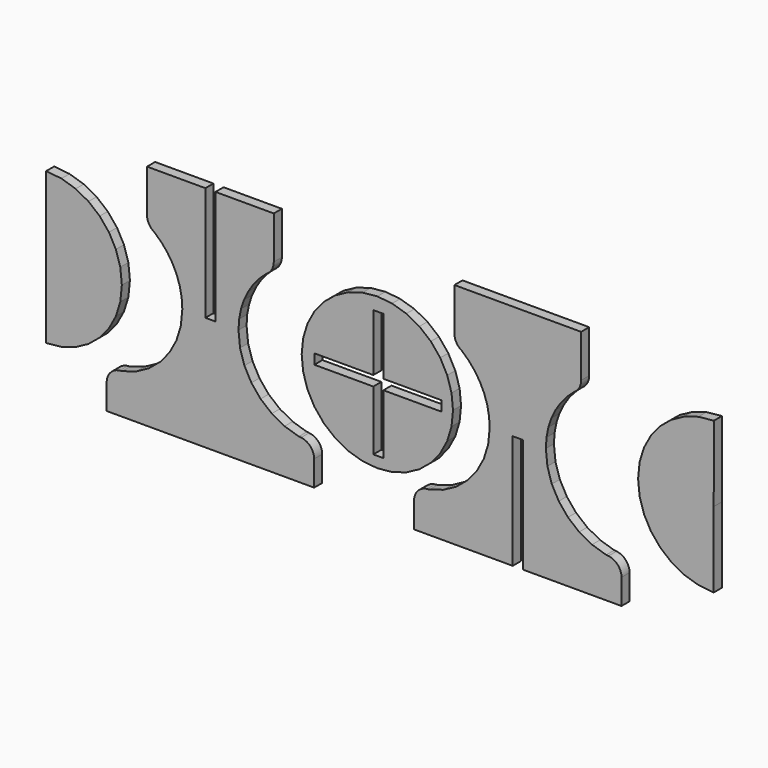
from build123d import *

# Parameters (mm, degrees)
F1_DEPTH = 200
F2_R     = 289.0380152714
F2_2_R   = 289.0380152714
F3_W     = 1169.8320388794
F3_H     = 200
F3_W_2   = 200
F3_H_2   = 1134.7459030151
F3_W_3   = 1150.1679611206
F3_H_3   = 1185.2540969849
F4_DEPTH = 810


with BuildPart() as f1:
    # F0 (on Front) → F1 (new body)
    with BuildSketch(Plane.XZ):
        Polygon((14041.69848, 1570.59092), (13749.063, 1599.413), (13456.42752, 1570.59092), (13175.03785, 1485.2323), (12915.70765, 1346.61742), (12688.40283, 1160.07317), (12501.85858, 932.76835), (12363.2437, 673.43815), (12277.88508, 392.04848), (12249.063, 99.413), (12277.88508, -193.22248), (12363.2437, -474.61215), (12501.85858, -733.94235), (12688.40283, -961.24717), (12915.70765, -1147.79142), (13175.03785, -1286.4063), (13456.42752, -1371.76492), (13749.063, -1400.587), (14041.69848, -1371.76492), (14323.08815, -1286.4063), (14582.41835, -1147.79142), (14809.72317, -961.24717), (14996.26742, -733.94235), (15134.8823, -474.61215), (15220.24092, -193.22248), (15249.063, 99.413), (15220.24092, 392.04848), (15134.8823, 673.43815), (14996.26742, 932.76835), (14809.72317, 1160.07317), (14582.41835, 1346.61742), (14323.08815, 1485.2323), align=None)
    extrude(amount=F1_DEPTH)

    # F3 (on Front) → F4 (cut)
    with BuildSketch(Plane.XZ):
        with Locations((13084.5116615295, 100)):
            Rectangle(F3_W, F3_H)
        with Locations((13769.4276809692, 767.3729515076)):
            Rectangle(F3_W_2, F3_H_2)
        with Locations((13769.4276809692, 100)):
            Rectangle(F3_W_2, F3_H)
        with Locations((14444.5116615295, 100)):
            Rectangle(F3_W_3, F3_H)
        with Locations((13769.4276809692, -592.6270484924)):
            Rectangle(F3_W_2, F3_H_3)
    extrude(amount=F4_DEPTH, mode=Mode.SUBTRACT)


with BuildPart() as f1b:
    # F0 (on Front) → F1, piece 2 (new body)
    with BuildSketch(Plane.XZ):
        Polygon((8384.783, -1383.619), (8382.009, -1384.008), (8382.009, -2147.087), (12496.001, -2147.087), (12496.001, -1384.008), (12493.227, -1383.619), (12191.41, -1352.678), (11910.33, -1264.985), (11655.999, -1126.551), (11434.43, -943.388), (11251.633, -721.505), (11113.62, -466.915), (11026.404, -185.627), (10995.996, 116.346), (11008.816, 313.324), (11046.198, 502.568), (11106.523, 682.46), (11188.174, 851.387), (11289.532, 1007.732), (11408.98, 1149.881), (11544.899, 1276.218), (11695.671, 1385.128), (11695.671, 2379.746), (10538.872, 2379.746), (10538.872, 116.329), (10338.872, 116.329), (10338.872, 2379.746), (9182.339, 2379.746), (9182.339, 1385.128), (9333.111, 1276.218), (9469.03, 1149.881), (9588.478, 1007.732), (9689.836, 851.387), (9771.487, 682.46), (9831.812, 502.568), (9869.194, 313.324), (9882.014, 116.346), (9851.606, -185.627), (9764.39, -466.915), (9626.377, -721.505), (9443.581, -943.388), (9222.011, -1126.551), (8967.68, -1264.985), (8686.6, -1352.678), align=None)
    extrude(amount=F1_DEPTH)

    # F2#2
    f2_2_edges = [f1b.edges().sort_by_distance(p)[0] for p in [
        (12496.001, -100, -1384.008),
        (8382.009, -100, -1384.008),
        (9182.339, -100, 1385.128),
        (11695.671, -100, 1385.128),
    ]]
    fillet(f2_2_edges, radius=F2_2_R)


with BuildPart() as f1c:
    # F0 (on Front) → F1, piece 3 (new body)
    with BuildSketch(Plane.XZ):
        Polygon((18591.193, -2231.754), (18591.193, -1468.675), (18588.418, -1468.286), (18286.603, -1437.343), (18005.525, -1349.649), (17751.196, -1211.215), (17529.628, -1028.051), (17346.832, -806.169), (17208.821, -551.58), (17121.606, -270.293), (17091.198, 31.679), (17104.018, 228.656), (17141.399, 417.898), (17201.723, 597.789), (17283.373, 766.714), (17384.729, 923.059), (17504.175, 1065.207), (17640.092, 1191.544), (17790.863, 1300.455), (17790.863, 2295.079), (15277.531, 2295.079), (15277.531, 1300.455), (15428.302, 1191.544), (15564.219, 1065.207), (15683.665, 923.059), (15785.021, 766.714), (15866.671, 597.789), (15926.995, 417.898), (15964.376, 228.656), (15977.196, 31.679), (15946.788, -270.293), (15859.573, -551.58), (15721.562, -806.169), (15538.766, -1028.051), (15317.198, -1211.215), (15062.869, -1349.649), (14781.791, -1437.343), (14479.976, -1468.286), (14477.201, -1468.675), (14477.201, -2231.754), (16434.045, -2231.754), (16434.045, 31.662), (16634.045, 31.662), (16634.045, -2231.754), align=None)
    extrude(amount=F1_DEPTH)

    # F2
    f2_edges = [f1c.edges().sort_by_distance(p)[0] for p in [
        (14477.201, -100, -1468.675),
        (18591.193, -100, -1468.675),
        (15277.531, -100, 1300.455),
        (17790.863, -100, 1300.455),
    ]]
    fillet(f2_edges, radius=F2_R)


with BuildPart() as f1d:
    # F0 (on Front) → F1, piece 4 (new body)
    with BuildSketch(Plane.XZ):
        Polygon((7180.083, 1650.209), (7182.516, 150.213), (7182.516, -1349.787), (7484.819, -1319.312), (7766.384, -1231.91), (8021.181, -1093.611), (8243.177, -910.447), (8426.34, -688.451), (8564.639, -433.655), (8652.041, -152.089), (8682.516, 150.213), (8652.041, 452.515), (8564.639, 734.081), (8426.34, 988.877), (8243.177, 1210.873), (8021.181, 1394.037), (7766.384, 1532.336), (7484.819, 1619.738), (7182.516, 1650.213), align=None)
    extrude(amount=F1_DEPTH)


with BuildPart() as f1e:
    # F0 (on Front) → F1, piece 5 (new body)
    with BuildSketch(Plane.XZ):
        Polygon((20419.998, -1400.587), (20419.998, 99.413), (20422.431, 1599.409), (20419.998, 1599.413), (20117.695, 1568.938), (19836.13, 1481.536), (19581.333, 1343.237), (19359.338, 1160.073), (19176.174, 938.077), (19037.875, 683.281), (18950.473, 401.715), (18919.998, 99.413), (18950.473, -202.889), (19037.875, -484.455), (19176.174, -739.251), (19359.338, -961.247), (19581.333, -1144.411), (19836.13, -1282.71), (20117.695, -1370.112), align=None)
    extrude(amount=F1_DEPTH)


solid = Compound([f1.part, f1b.part, f1c.part, f1d.part, f1e.part])
